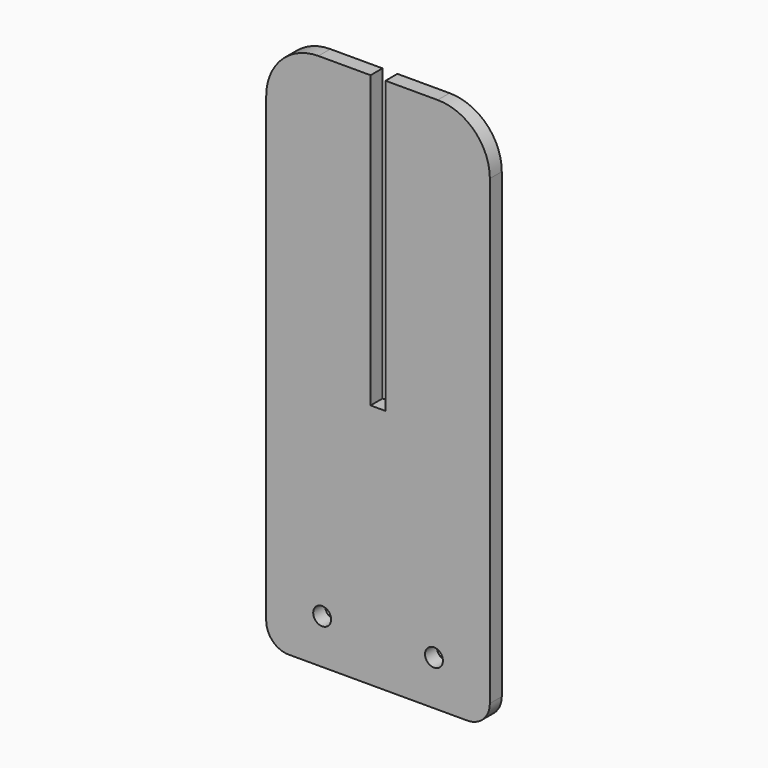
from build123d import *

# Parameters (mm, degrees)
F0_R     = 3.81
F1_DEPTH = 3.175


with BuildPart() as f1:
    # F0 (on Front) → F1 (new body, symmetric)
    with BuildSketch(Plane.XZ):
        with BuildLine():
            Line((-3.175, 123.825), (-25.4, 123.825))
            ThreePointArc((-25.4, 123.825), (-41.115448, 117.315448), (-47.625, 101.6))
            Line((-47.625, 101.6), (-47.625, -95.25))
            ThreePointArc((-47.625, -95.25), (-44.835192, -101.985192), (-38.1, -104.775))
            Line((-38.1, -104.775), (38.1, -104.775))
            ThreePointArc((38.1, -104.775), (44.835192, -101.985192), (47.625, -95.25))
            Line((47.625, -95.25), (47.625, 101.6))
            ThreePointArc((47.625, 101.6), (41.115448, 117.315448), (25.4, 123.825))
            Line((25.4, 123.825), (3.175, 123.825))
            Line((3.175, 123.825), (3.175, 0))
            Line((3.175, 0), (0, 0))
            Line((0, 0), (-3.175, 0))
            Line((-3.175, 0), (-3.175, 123.825))
        make_face()
        with Locations((-23.7998, -85.725)):
            Circle(F0_R, mode=Mode.SUBTRACT)
        with Locations((23.8252, -85.725)):
            Circle(F0_R, mode=Mode.SUBTRACT)
    extrude(amount=F1_DEPTH, both=True)


solid = f1.part
